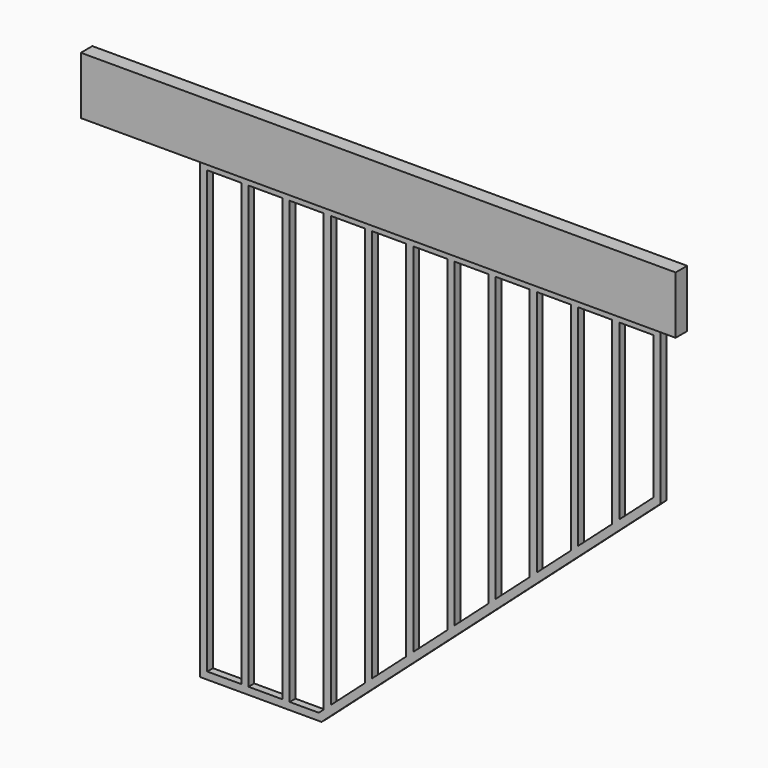
from build123d import *

# Parameters (mm, degrees)
F0_W          = 90.054546
F0_H          = 1168.4
F0_W_2        = 90.054545
F1_DEPTH      = 9.525
F2_W          = 38.1
F2_H          = 152.4
F3_DEPTH      = 965.2
F3_DEPTH_BACK = 609.6


with BuildPart() as f1:
    # F0 (on Front) → F1 (new body, symmetric)
    with BuildSketch(Plane.XZ):
        Polygon((909.972564, 318.464342), (-309.227436, 318.464342), (-309.227436, -888.035658), (12.421739, -888.035658), (909.972564, -87.935658), align=None)
        Polygon((18.086201, -857.466035), (5.163507, -868.985658), (-71.968345, -868.985658), (-71.968345, 299.414342), (18.086201, 299.414342), align=None, mode=Mode.SUBTRACT)
        with Locations((-245.150163, -284.785658)):
            Rectangle(F0_W, F0_H, mode=Mode.SUBTRACT)
        with Locations((-136.045617, -284.785658)):
            Rectangle(F0_W_2, F0_H, mode=Mode.SUBTRACT)
        Polygon((37.136201, -840.484373), (37.136201, 299.414342), (127.190746, 299.414342), (127.190746, -760.207424), align=None, mode=Mode.SUBTRACT)
        Polygon((146.240746, -743.225761), (146.240746, 299.414342), (236.295291, 299.414342), (236.295291, -662.948813), align=None, mode=Mode.SUBTRACT)
        Polygon((255.345291, -645.96715), (255.345291, 299.414342), (345.399837, 299.414342), (345.399837, -565.690201), align=None, mode=Mode.SUBTRACT)
        Polygon((364.449837, -548.708539), (364.449837, 299.414342), (454.504382, 299.414342), (454.504382, -468.43159), align=None, mode=Mode.SUBTRACT)
        Polygon((473.554382, -451.449928), (473.554382, 299.414342), (563.608928, 299.414342), (563.608928, -371.172979), align=None, mode=Mode.SUBTRACT)
        Polygon((582.658928, -354.191316), (582.658928, 299.414342), (672.713473, 299.414342), (672.713473, -273.914367), align=None, mode=Mode.SUBTRACT)
        Polygon((691.763473, -256.932705), (691.763473, 299.414342), (781.818019, 299.414342), (781.818019, -176.655756), align=None, mode=Mode.SUBTRACT)
        Polygon((890.922564, 299.414342), (890.922564, -79.397145), (800.868019, -159.674094), (800.868019, 299.414342), align=None, mode=Mode.SUBTRACT)
    extrude(amount=F1_DEPTH, both=True)


with BuildPart() as f3:
    # F2 (on Right) → F3 (new body, two sides)
    with BuildSketch(Plane.YZ) as f3_sk:
        with Locations((-9.525, 401.014342)):
            Rectangle(F2_W, F2_H)
    extrude(amount=F3_DEPTH)
    extrude(f3_sk.sketch, amount=-F3_DEPTH_BACK)


solid = Compound([f1.part, f3.part])
